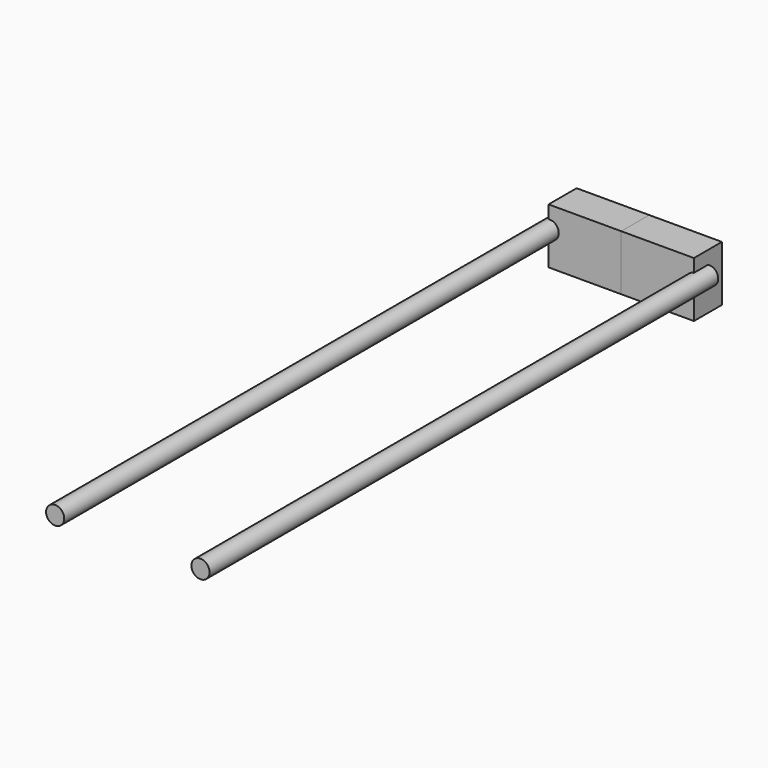
from build123d import *

# Parameters (mm, degrees)
F0_R     = 12.7
F1_DEPTH = 889
F2_W     = 48.9672906697
F2_H     = 77.5736253709
F3_DEPTH = 101.6
F5_DEPTH = 101.6


with BuildPart() as f1:
    # F0 (on Front) → F1 (new body)
    with BuildSketch(Plane.XZ):
        with Locations((-100.0376567245, 0)):
            Circle(F0_R)
    extrude(amount=F1_DEPTH)


with BuildPart() as f1b:
    # F0 (on Front) → F1, piece 2 (new body)
    with BuildSketch(Plane.XZ):
        with Locations((103.1623432755, 0)):
            Circle(F0_R)
    extrude(amount=F1_DEPTH)


with BuildPart() as f3:
    # F2 (on Right) → F3 (new body)
    with BuildSketch(Plane.YZ):
        with Locations((-0.1971311867, -7.9556787387)):
            Rectangle(F2_W, F2_H)
    extrude(amount=-F3_DEPTH)


with BuildPart() as f5:
    # F5 (new): a face of the model
    f5_faces = [f3.part.faces().sort_by_distance(p)[0] for p in [
        (0, -0.1971311867, -7.9556787387),
    ]]
    extrude(f5_faces, amount=F5_DEPTH)


solid = Compound([f1.part, f1b.part, f3.part, f5.part])
